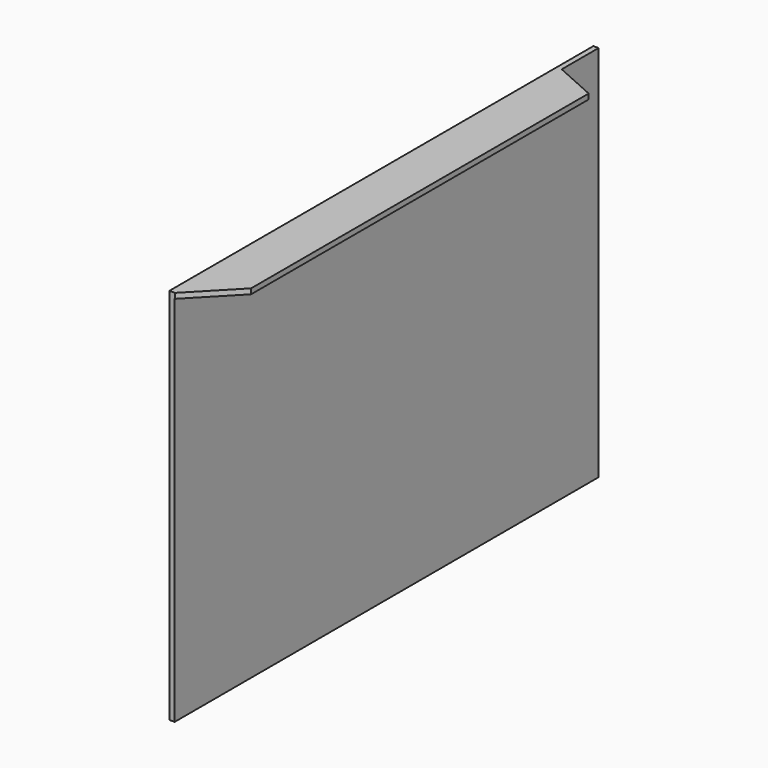
from build123d import *

# Parameters (mm, degrees)
F0_W     = 1.5875
F0_H     = 160.30702
F1_DEPTH = 114.3
F3_DEPTH = 12.7
F5_DEPTH = 25.4


with BuildPart() as f1:
    # F0 (on Top) → F1 (new body)
    with BuildSketch(Plane.XY):
        Rectangle(F0_W, F0_H)
    extrude(amount=F1_DEPTH)

    # F2 (on face) → F3 (join)
    with BuildSketch(Plane.YZ.offset(0.79375)):
        Polygon((65.664738, 114.3), (-80.15351, 114.3), (-80.15351, 112.7125), (65.664738, 112.7125), (66.208839, 112.7125), (66.208839, 114.3), align=None)
    extrude(amount=F3_DEPTH)

    # F4 (on face) → F5 (cut)
    with BuildSketch(Plane.XY.offset(114.3)):
        Polygon((13.49375, 66.208839), (0.79375, 66.208839), (13.49375, 60.521353), align=None)
        Polygon((13.49375, -67.124762), (0.920621, -80.15351), (13.49375, -80.15351), align=None)
    extrude(amount=-F5_DEPTH, mode=Mode.SUBTRACT)


solid = f1.part
